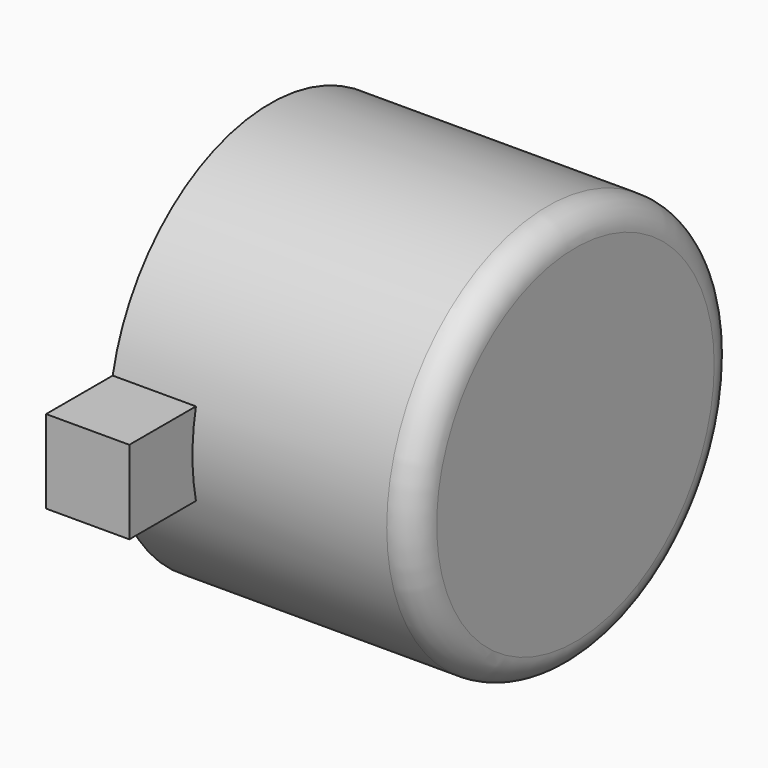
from build123d import *

# Parameters (mm, degrees)
F0_R     = 3.625
F1_DEPTH = 2.75
F2_R     = 0.5
F4_DEPTH = 1.5


with BuildPart() as f1:
    # F0 (on Right) → F1 (new body, symmetric)
    with BuildSketch(Plane.YZ):
        Circle(F0_R)
    extrude(amount=F1_DEPTH, both=True)

    # F2
    f2_edges = [f1.edges().sort_by_distance(p)[0] for p in [
        (2.75, -3.625, 0),
    ]]
    fillet(f2_edges, radius=F2_R)

    # F3 (on face) → F4 (join)
    with BuildSketch(Plane(origin=(-2.75, 0, 0), x_dir=(0, -1, 0), z_dir=(-1, 0, 0))):
        with BuildLine():
            Line((3.5465652398, -0.75), (5.0465652398, -0.75))
            Line((5.0465652398, -0.75), (5.0465652398, 0.75))
            Line((5.0465652398, 0.75), (3.5465652398, 0.75))
            ThreePointArc((3.5465652398, 0.75), (3.625, 0), (3.5465652398, -0.75))
        make_face()
        with BuildLine():
            Line((-3.5465652398, 0.75), (-5.0465652398, 0.75))
            Line((-5.0465652398, 0.75), (-5.0465652398, -0.75))
            Line((-5.0465652398, -0.75), (-3.5465652398, -0.75))
            ThreePointArc((-3.5465652398, -0.75), (-3.625, 0), (-3.5465652398, 0.75))
        make_face()
    extrude(amount=-F4_DEPTH)


solid = f1.part
